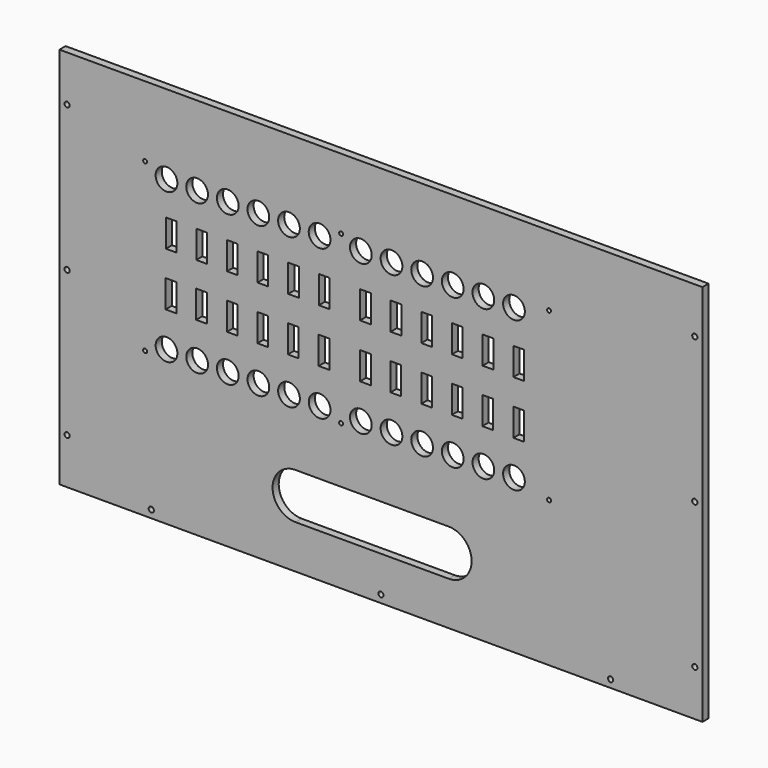
from build123d import *

# Parameters (mm, degrees)
CYLINDER045_R          = 1.7
CYLINDER045_DEPTH      = 20
CYLINDER045_ROLL_ANGLE = 90
CYLINDER044_R          = 1.7
CYLINDER044_DEPTH      = 20
CYLINDER044_ROLL_ANGLE = 90
CYLINDER043_R          = 1.7
CYLINDER043_DEPTH      = 20
CYLINDER043_ROLL_ANGLE = 90
CYLINDER040_R          = 1.7
CYLINDER040_DEPTH      = 20
CYLINDER040_ROLL_ANGLE = 90
CYLINDER041_R          = 1.7
CYLINDER041_DEPTH      = 20
CYLINDER041_ROLL_ANGLE = 90
CYLINDER042_R          = 1.7
CYLINDER042_DEPTH      = 20
CYLINDER042_ROLL_ANGLE = 90
SKETCH022_R            = 1.7
PAD020_DEPTH           = 20
SKETCH009_W            = 250
SKETCH009_H            = 420
SKETCH009_R            = 7.1
SKETCH009_R_2          = 1.3
SKETCH009_W_2          = 18
SKETCH009_H_2          = 7
PAD009_DEPTH           = 5


with BuildPart() as cylinder045:
    # Cylinder045 → Cylinder045 (new body)
    with BuildSketch(Plane.XY):
        Circle(CYLINDER045_R)
    extrude(amount=CYLINDER045_DEPTH)


with BuildPart() as cylinder045_1:
    # Cylinder045 roll: moved
    add(cylinder045.part.rotate(Axis((0, 0, 0), (1, 0, 0)), CYLINDER045_ROLL_ANGLE))


with BuildPart() as cylinder045_2:
    # Cylinder045 placement: moved
    add(cylinder045_1.part.moved(Location((-205, -140, 210))))


with BuildPart() as cylinder044:
    # Cylinder044 → Cylinder044 (new body)
    with BuildSketch(Plane.XY):
        Circle(CYLINDER044_R)
    extrude(amount=CYLINDER044_DEPTH)


with BuildPart() as cylinder044_1:
    # Cylinder044 roll: moved
    add(cylinder044.part.rotate(Axis((0, 0, 0), (1, 0, 0)), CYLINDER044_ROLL_ANGLE))


with BuildPart() as cylinder044_2:
    # Cylinder044 placement: moved
    add(cylinder044_1.part.moved(Location((-205, -140, 20))))


with BuildPart() as cylinder043:
    # Cylinder043 → Cylinder043 (new body)
    with BuildSketch(Plane.XY):
        Circle(CYLINDER043_R)
    extrude(amount=CYLINDER043_DEPTH)


with BuildPart() as cylinder043_1:
    # Cylinder043 roll: moved
    add(cylinder043.part.rotate(Axis((0, 0, 0), (1, 0, 0)), CYLINDER043_ROLL_ANGLE))


with BuildPart() as cylinder043_2:
    # Cylinder043 placement: moved
    add(cylinder043_1.part.moved(Location((-205, -140, 115))))


with BuildPart() as cylinder040:
    # Cylinder040 → Cylinder040 (new body)
    with BuildSketch(Plane.XY):
        Circle(CYLINDER040_R)
    extrude(amount=CYLINDER040_DEPTH)


with BuildPart() as cylinder040_1:
    # Cylinder040 roll: moved
    add(cylinder040.part.rotate(Axis((0, 0, 0), (1, 0, 0)), CYLINDER040_ROLL_ANGLE))


with BuildPart() as cylinder040_2:
    # Cylinder040 placement: moved
    add(cylinder040_1.part.moved(Location((205, -135, 20))))


with BuildPart() as cylinder041:
    # Cylinder041 → Cylinder041 (new body)
    with BuildSketch(Plane.XY):
        Circle(CYLINDER041_R)
    extrude(amount=CYLINDER041_DEPTH)


with BuildPart() as cylinder041_1:
    # Cylinder041 roll: moved
    add(cylinder041.part.rotate(Axis((0, 0, 0), (1, 0, 0)), CYLINDER041_ROLL_ANGLE))


with BuildPart() as cylinder041_2:
    # Cylinder041 placement: moved
    add(cylinder041_1.part.moved(Location((205, -135, 115))))


with BuildPart() as cylinder042:
    # Cylinder042 → Cylinder042 (new body)
    with BuildSketch(Plane.XY):
        Circle(CYLINDER042_R)
    extrude(amount=CYLINDER042_DEPTH)


with BuildPart() as cylinder042_1:
    # Cylinder042 roll: moved
    add(cylinder042.part.rotate(Axis((0, 0, 0), (1, 0, 0)), CYLINDER042_ROLL_ANGLE))


with BuildPart() as cylinder042_2:
    # Cylinder042 placement: moved
    add(cylinder042_1.part.moved(Location((205, -135, 210))))


with BuildPart() as fusion014:
    # Sketch022 → Pad020 (new body)
    with BuildSketch(Plane.XZ.offset(135)):
        with Locations((-150, -5)):
            Circle(SKETCH022_R)
        with Locations((0, -5)):
            Circle(SKETCH022_R)
        with Locations((150, -5)):
            Circle(SKETCH022_R)
    extrude(amount=PAD020_DEPTH)

    # Fusion014: union Cylinder045, Cylinder044, Cylinder043, Cylinder040, Cylinder041, Cylinder042
    add(cylinder045_2.part)
    add(cylinder044_2.part)
    add(cylinder043_2.part)
    add(cylinder040_2.part)
    add(cylinder041_2.part)
    add(cylinder042_2.part)


with BuildPart() as cut017:
    # Sketch009 → Pad009 (new body)
    with BuildSketch(Plane(origin=(-160, -140, 200), x_dir=(0, 0, -1), z_dir=(0, -1, 0))):
        with Locations((85, 160.000183)):
            Rectangle(SKETCH009_W, SKETCH009_H)
        with Locations((11.81, 19.93)):
            Circle(SKETCH009_R, mode=Mode.SUBTRACT)
        with Locations((11.81, 39.93)):
            Circle(SKETCH009_R, mode=Mode.SUBTRACT)
        with Locations((11.81, 59.93)):
            Circle(SKETCH009_R, mode=Mode.SUBTRACT)
        with Locations((11.81, 79.93)):
            Circle(SKETCH009_R, mode=Mode.SUBTRACT)
        with Locations((11.81, 99.93)):
            Circle(SKETCH009_R, mode=Mode.SUBTRACT)
        with Locations((11.81, 119.93)):
            Circle(SKETCH009_R, mode=Mode.SUBTRACT)
        with Locations((11.81, 146.89)):
            Circle(SKETCH009_R, mode=Mode.SUBTRACT)
        with Locations((11.81, 166.89)):
            Circle(SKETCH009_R, mode=Mode.SUBTRACT)
        with Locations((11.81, 186.89)):
            Circle(SKETCH009_R, mode=Mode.SUBTRACT)
        with Locations((11.81, 246.89)):
            Circle(SKETCH009_R, mode=Mode.SUBTRACT)
        with Locations((109.58, 246.89)):
            Circle(SKETCH009_R, mode=Mode.SUBTRACT)
        with Locations((11.81, 226.89)):
            Circle(SKETCH009_R, mode=Mode.SUBTRACT)
        with Locations((11.81, 206.89)):
            Circle(SKETCH009_R, mode=Mode.SUBTRACT)
        with Locations((109.58, 186.89)):
            Circle(SKETCH009_R, mode=Mode.SUBTRACT)
        with Locations((109.58, 226.89)):
            Circle(SKETCH009_R, mode=Mode.SUBTRACT)
        with Locations((109.58, 206.89)):
            Circle(SKETCH009_R, mode=Mode.SUBTRACT)
        with Locations((109.58, 166.89)):
            Circle(SKETCH009_R, mode=Mode.SUBTRACT)
        with Locations((109.63, 146.89)):
            Circle(SKETCH009_R, mode=Mode.SUBTRACT)
        with Locations((109.63, 119.95)):
            Circle(SKETCH009_R, mode=Mode.SUBTRACT)
        with Locations((109.63, 99.95)):
            Circle(SKETCH009_R, mode=Mode.SUBTRACT)
        with Locations((109.63, 79.95)):
            Circle(SKETCH009_R, mode=Mode.SUBTRACT)
        with Locations((109.63, 59.95)):
            Circle(SKETCH009_R, mode=Mode.SUBTRACT)
        with Locations((109.63, 39.95)):
            Circle(SKETCH009_R, mode=Mode.SUBTRACT)
        with Locations((109.63, 19.95)):
            Circle(SKETCH009_R, mode=Mode.SUBTRACT)
        with Locations((5.9944, 5.9944)):
            Circle(SKETCH009_R_2, mode=Mode.SUBTRACT)
        with Locations((5.9944, 134)):
            Circle(SKETCH009_R_2, mode=Mode.SUBTRACT)
        with Locations((5.9944, 269.79)):
            Circle(SKETCH009_R_2, mode=Mode.SUBTRACT)
        with Locations((115, 269.79)):
            Circle(SKETCH009_R_2, mode=Mode.SUBTRACT)
        with Locations((115, 5.9944)):
            Circle(SKETCH009_R_2, mode=Mode.SUBTRACT)
        with Locations((115, 134)):
            Circle(SKETCH009_R_2, mode=Mode.SUBTRACT)
        with Locations((42.87, 23.07)):
            Rectangle(SKETCH009_W_2, SKETCH009_H_2, mode=Mode.SUBTRACT)
        with Locations((42.87, 62.97)):
            Rectangle(SKETCH009_W_2, SKETCH009_H_2, mode=Mode.SUBTRACT)
        with Locations((42.87, 82.88)):
            Rectangle(SKETCH009_W_2, SKETCH009_H_2, mode=Mode.SUBTRACT)
        with Locations((42.87, 42.9)):
            Rectangle(SKETCH009_W_2, SKETCH009_H_2, mode=Mode.SUBTRACT)
        with Locations((42.87, 149.86)):
            Rectangle(SKETCH009_W_2, SKETCH009_H_2, mode=Mode.SUBTRACT)
        with Locations((42.87, 122.96)):
            Rectangle(SKETCH009_W_2, SKETCH009_H_2, mode=Mode.SUBTRACT)
        with Locations((42.87, 102.93)):
            Rectangle(SKETCH009_W_2, SKETCH009_H_2, mode=Mode.SUBTRACT)
        with Locations((42.87, 169.86)):
            Rectangle(SKETCH009_W_2, SKETCH009_H_2, mode=Mode.SUBTRACT)
        with Locations((42.87, 209.84)):
            Rectangle(SKETCH009_W_2, SKETCH009_H_2, mode=Mode.SUBTRACT)
        with Locations((42.87, 189.89)):
            Rectangle(SKETCH009_W_2, SKETCH009_H_2, mode=Mode.SUBTRACT)
        with Locations((42.87, 250.02)):
            Rectangle(SKETCH009_W_2, SKETCH009_H_2, mode=Mode.SUBTRACT)
        with Locations((42.870057, 229.9)):
            Rectangle(SKETCH009_W_2, SKETCH009_H_2, mode=Mode.SUBTRACT)
        with Locations((77.82, 22.87)):
            Rectangle(SKETCH009_W_2, SKETCH009_H_2, mode=Mode.SUBTRACT)
        with Locations((77.335221, 42.83)):
            Rectangle(SKETCH009_W_2, SKETCH009_H_2, mode=Mode.SUBTRACT)
        with Locations((77.692519, 62.9)):
            Rectangle(SKETCH009_W_2, SKETCH009_H_2, mode=Mode.SUBTRACT)
        with Locations((77.789409, 82.84)):
            Rectangle(SKETCH009_W_2, SKETCH009_H_2, mode=Mode.SUBTRACT)
        with Locations((77.732999, 102.77)):
            Rectangle(SKETCH009_W_2, SKETCH009_H_2, mode=Mode.SUBTRACT)
        with Locations((77.819954, 122.86)):
            Rectangle(SKETCH009_W_2, SKETCH009_H_2, mode=Mode.SUBTRACT)
        with Locations((77.899539, 149.871817)):
            Rectangle(SKETCH009_W_2, SKETCH009_H_2, mode=Mode.SUBTRACT)
        with Locations((77.773082, 169.767253)):
            Rectangle(SKETCH009_W_2, SKETCH009_H_2, mode=Mode.SUBTRACT)
        with Locations((77.780992, 189.89)):
            Rectangle(SKETCH009_W_2, SKETCH009_H_2, mode=Mode.SUBTRACT)
        with Locations((77.671681, 209.83816)):
            Rectangle(SKETCH009_W_2, SKETCH009_H_2, mode=Mode.SUBTRACT)
        with Locations((77.692731, 229.7)):
            Rectangle(SKETCH009_W_2, SKETCH009_H_2, mode=Mode.SUBTRACT)
        with Locations((77.82, 250.02)):
            Rectangle(SKETCH009_W_2, SKETCH009_H_2, mode=Mode.SUBTRACT)
        with BuildLine():
            ThreePointArc((181.567028, 204.22761), (166.567028, 219.22761), (151.567028, 204.22761))
            Line((151.567028, 204.22761), (151.567028, 104.22761))
            ThreePointArc((151.567028, 104.22761), (166.567028, 89.22761), (181.567028, 104.22761))
            Line((181.567028, 204.22761), (181.567028, 104.22761))
        make_face(mode=Mode.SUBTRACT)
    extrude(amount=PAD009_DEPTH)

    # Cut017: cut Fusion014
    add(fusion014.part, mode=Mode.SUBTRACT)


solid = cut017.part
